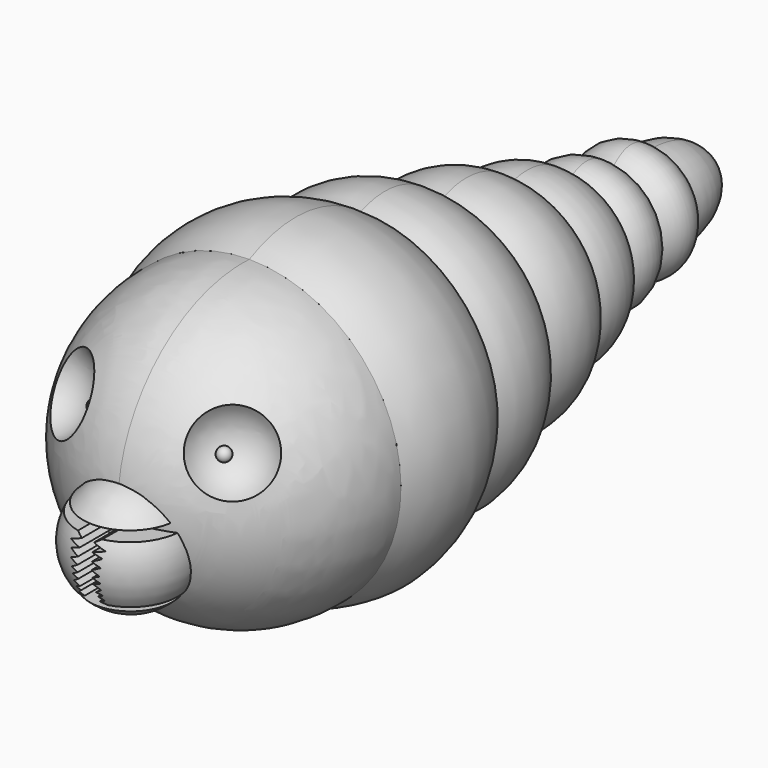
from build123d import *

# Parameters (mm, degrees)
F1_ANGLE_BACK = 90
F1_ANGLE      = 180
F12_W         = 367.4454391003
F12_H         = 187.7766624093
F13_DEPTH     = 127
F23_DEPTH     = 25


with BuildPart() as f1:
    # F0 (on Top) → F1 (revolve)
    with BuildSketch(Plane.XY, mode=Mode.PRIVATE) as f1_sk:
        with BuildLine():
            add(Edge.make_bspline(
                [(0, -66.0401000855), (19.5193862424, -66.0401000855), (18.4604556426, -45.9925725493)],
                knots=[0, 0, 0, 1.6250731722, 1.6250731722, 1.6250731722], degree=2, weights=[1, 0.6876589999, 1]))
            add(Edge.make_bspline(
                [(18.4604556426, -45.9925725493), (22.8585777845, -37.0898210688), (16.6767997641, -29.0472566455)],
                knots=[2.7319737527, 2.7319737527, 2.7319737527, 3.7357054642, 3.7357054642, 3.7357054642], degree=2, weights=[1, 0.8766864959, 1]))
            add(Edge.make_bspline(
                [(16.6767997641, -29.0472566455), (19.4021366218, -22.1180815975), (12.9546828294, -16.7354382675)],
                knots=[2.8559072971, 2.8559072971, 2.8559072971, 3.8713688343, 3.8713688343, 3.8713688343], degree=2, weights=[1, 0.8738500468, 1]))
            add(Edge.make_bspline(
                [(12.9546828294, -16.7354382675), (15.6646299286, -10.72135184), (10.5364179417, -5.8299215386)],
                knots=[2.7941422847, 2.7941422847, 2.7941422847, 3.8417705752, 3.8417705752, 3.8417705752], degree=2, weights=[1, 0.8659176989, 1]))
            add(Edge.make_bspline(
                [(10.5364179417, -5.8299215386), (12.0171768159, -0.6698840277), (7.3370099509, 2.9232960049)],
                knots=[2.9066421043, 2.9066421043, 2.9066421043, 3.9684165476, 3.9684165476, 3.9684165476], degree=2, weights=[1, 0.8623582109, 1]))
            add(Edge.make_bspline(
                [(7.3370099509, 2.9232960049), (9.842432918, 6.4900889662), (5.69853216, 9.2603570364)],
                knots=[2.6956009998, 2.6956009998, 2.6956009998, 3.9359959157, 3.9359959157, 3.9359959157], degree=2, weights=[1, 0.8137637108, 1]))
            add(Edge.make_bspline(
                [(5.69853216, 9.2603570364), (9.1577670669, 12.3326352254), (5.4676116648, 15.2804160912)],
                knots=[2.4925865913, 2.4925865913, 2.4925865913, 3.8422771914, 3.8422771914, 3.8422771914], degree=2, weights=[1, 0.7808036134, 1]))
            add(Edge.make_bspline(
                [(5.4676116648, 15.2804160912), (5.3072395191, 23.5475825014), (0, 23.5475825014)],
                knots=[1.6010185471, 1.6010185471, 1.6010185471, 3.1415926536, 3.1415926536, 3.1415926536], degree=2, weights=[1, 0.7177108121, 1]))
            Line((0, 23.5475825014), (0, 15.0228179991))
            Line((0, 15.0228179991), (0, -47.0241894946))
            Line((0, -47.0241894946), (0, -66.0401000855))
        make_face()
    revolve(f1_sk.sketch.rotate(Axis((0, -21.246258792, 0), (0, -1, 0)), -F1_ANGLE_BACK), axis=Axis((0, -21.246258792, 0), (0, -1, 0)), revolution_arc=F1_ANGLE)


with BuildPart() as f4:
    # F3 (on offset) → F4 (revolve)
    with BuildSketch(Plane.XY.offset(8)):
        with BuildLine():
            Line((11.3920159638, -62.9437044263), (11.3920159638, -57.4497272627))
            ThreePointArc((11.3920159638, -57.4497272627), (5.8980388002, -62.9437044263), (11.3920159638, -68.4376815898))
            Line((11.3920159638, -68.4376815898), (11.3920159638, -62.9437044263))
        make_face()
    revolve(axis=Axis((11.3920159638, -65.6906930081, 8), (0, 1, 0)))


with BuildPart() as f5_1:
    # F5: instance of F1
    add(f1.part.mirror(Plane(origin=(0, -28.3875231773, 0), x_dir=(0, -1, 0), z_dir=(-1, 0, 0))))


with BuildPart() as f1_1:
    add(f1.part)

    # F7: cut F4
    add(f4.part, mode=Mode.SUBTRACT)

    # F12 (on offset) → F13 (intersect)
    with BuildSketch(Plane(origin=(0, 1.3891854213, -7.8784620241), x_dir=(1, 0, 0), z_dir=(0, -0.1736481777, 0.984807753))):
        with Locations((-43.3515459299, -26.2551046908)):
            Rectangle(F12_W, F12_H)
    extrude(amount=F13_DEPTH, mode=Mode.INTERSECT)


with BuildPart() as f16:
    # F15 (on offset) → F16 (revolve)
    with BuildSketch(Plane.XZ.offset(59.69)):
        with BuildLine():
            Line((7.8649679199, 5.7042548433), (7.8649679199, 6.5115128445))
            ThreePointArc((7.8649679199, 6.5115128445), (7.0577099187, 5.7042548433), (7.8649679199, 4.8969968421))
            Line((7.8649679199, 4.8969968421), (7.8649679199, 5.7042548433))
        make_face()
    revolve(axis=Axis((7.8649679199, -59.69, 5.7042548433), (0, 0, -1)))


with BuildPart() as f20:
    # F19 (on offset) → F20 (revolve)
    with BuildSketch(Plane(origin=(0, 0, 0), x_dir=(0, -1, 0), z_dir=(-1, 0, 0))):
        with BuildLine():
            Line((64.0719301838, -1.2353407219), (63.9775386084, -8.5377655923))
            Line((63.9775386084, -8.5377655923), (69.7557144857, -8.5377655923))
            ThreePointArc((69.7557144857, -8.5377655923), (71.1232978776, -4.9822399368), (70.4356982165, -1.2353407219))
            Line((70.4356982165, -1.2353407219), (64.0719301838, -1.2353407219))
        make_face()
    revolve(axis=Axis((0, -64.0319388181, -4.3291967358), (0, 0.0129249794, -0.999916469)))


with BuildPart() as f20b:
    # F19 (on offset) → F20, piece 2 (revolve)
    with BuildSketch(Plane(origin=(0, 0, 0), x_dir=(0, -1, 0), z_dir=(-1, 0, 0))):
        with BuildLine():
            Line((63.9668025482, -9.3683404848), (63.9410737395, -11.3588008811))
            ThreePointArc((63.9410737395, -11.3588008811), (66.6851860102, -10.8775879733), (69.0269567152, -9.3683404848))
            Line((69.0269567152, -9.3683404848), (63.9668025482, -9.3683404848))
        make_face()
    revolve(axis=Axis((0, -64.0319388181, -4.3291967358), (0, 0.0129249794, -0.999916469)))


with BuildPart() as f20c:
    # F19 (on offset) → F20, piece 3 (revolve)
    with BuildSketch(Plane(origin=(0, 0, 0), x_dir=(0, -1, 0), z_dir=(-1, 0, 0))):
        with BuildLine():
            Line((64.1228038967, 2.7004074095), (64.0843907972, -0.2713490424))
            Line((64.0843907972, -0.2713490424), (69.8635518755, -0.2713490424))
            ThreePointArc((69.8635518755, -0.2713490424), (67.3549674045, 1.9134230802), (64.1228038967, 2.7004074095))
        make_face()
    revolve(axis=Axis((0, -64.0319388181, -4.3291967358), (0, 0.0129249794, -0.999916469)))


with BuildPart() as f21_1:
    # F21: instance of F1
    add(f1_1.part.mirror(Plane(origin=(0, -28.6862430886, 1.2818396159), x_dir=(0, -1, 0), z_dir=(-1, 0, 0))))


with BuildPart() as f21_2:
    # F21: instance of F16
    add(f16.part.mirror(Plane(origin=(0, -28.6862430886, 1.2818396159), x_dir=(0, -1, 0), z_dir=(-1, 0, 0))))


with BuildPart() as f23:
    # F22 (on offset) → F23 (new body)
    with BuildSketch(Plane.XZ.offset(62.23)):
        Polygon((0.738652423, -1.6654726351), (2.0462172106, -0.8909275057), (0, 0), (0, -11.1015707251), (1.6174656339, -8.5396301001), (0.9304652922, -8.1886630505), (1.6025309451, -7.9422388226), (1.0424763896, -7.4717923999), (1.6657281667, -7.2226864286), (0.9936783463, -6.9222408347), (1.6499152407, -6.4715729095), (0.8988007903, -5.957652349), (1.7131669447, -5.6809266098), (0.9067072533, -5.2223508246), (1.6973540187, -4.8823733814), (0.8592684753, -4.3763597496), (1.8159509636, -3.9415038191), (0.8434555493, -3.4987418912), (1.9266409799, -2.9848217964), (0.7643909194, -2.5736852549), (2.1045170724, -2.2234779317), align=None)
    extrude(amount=F23_DEPTH)


with BuildPart() as f24_1:
    # F24: instance of F23
    add(f23.part.mirror(Plane(origin=(0, -74.73, -5.5507853626), x_dir=(0, -1, 0), z_dir=(-1, 0, 0))))


with BuildPart() as f20_1:
    add(f20.part)

    # F25: cut F24_1, F23
    add(f24_1.part, mode=Mode.SUBTRACT)
    add(f23.part, mode=Mode.SUBTRACT)


solid = Compound([f1_1.part, f16.part, f20b.part, f20c.part, f21_1.part, f21_2.part, f20_1.part])
